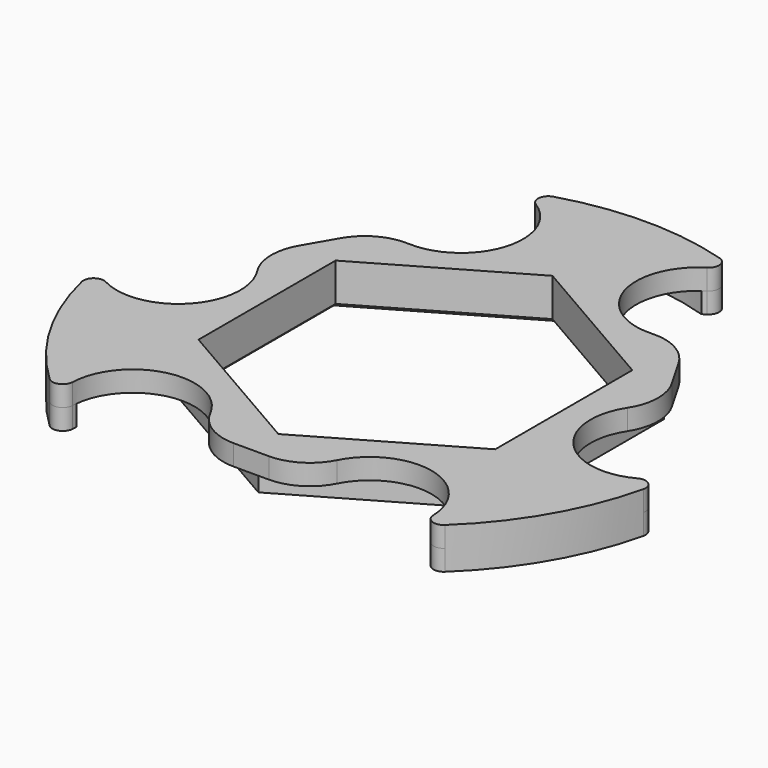
from build123d import *

# Parameters (mm, degrees)
PAD_DEPTH    = 2
PAD002_DEPTH = 4
PAD003_DEPTH = 2
FILLET_R     = 1
FILLET001_R  = 5
CHAMFER_SIZE = 0.3


with BuildPart() as part:
    # Sketch → Pad (new body)
    with BuildSketch(Plane.XY):
        with BuildLine():
            ThreePointArc((10.718064, 25.867414), (0, 28), (-10.718064, 25.867414))
            ThreePointArc((-14.5, 14.722432), (-5.818221, 17.990531), (-10.718064, 25.867414))
            Line((-20, 5.196152), (-14.5, 14.722432))
            ThreePointArc((-27.76087, -3.651592), (-18.489367, -3.956538), (-20, 5.196152))
            ThreePointArc((-27.76087, -3.651592), (-24.248711, -14), (-17.042806, -22.215822))
            ThreePointArc((-5.5, -19.918584), (-12.671146, -14.033993), (-17.042806, -22.215822))
            Line((5.5, -19.918584), (-5.5, -19.918584))
            ThreePointArc((17.042806, -22.215822), (12.671146, -14.033993), (5.5, -19.918584))
            ThreePointArc((17.042806, -22.215822), (24.248711, -14), (27.76087, -3.651592))
            ThreePointArc((20, 5.196152), (18.489367, -3.956538), (27.76087, -3.651592))
            Line((14.5, 14.722432), (20, 5.196152))
            ThreePointArc((10.718064, 25.867414), (5.818221, 17.990531), (14.5, 14.722432))
        make_face()
        Polygon((0, 16.627688), (-14.4, 8.313844), (-14.4, -8.313844), (0, -16.627688), (14.4, -8.313844), (14.4, 8.313844), align=None, mode=Mode.SUBTRACT)
    extrude(amount=PAD_DEPTH)

    # Sketch002 → Pad002 (join)
    with BuildSketch(Plane.XY.offset(2)):
        Polygon((0, 19.052559), (-16.5, 9.526279), (-16.5, -9.526279), (0, -19.052559), (16.5, -9.526279), (16.5, 9.526279), align=None)
        Polygon((0, 16.627688), (-14.4, 8.313844), (-14.4, -8.313844), (0, -16.627688), (14.4, -8.313844), (14.4, 8.313844), align=None, mode=Mode.SUBTRACT)
    extrude(amount=-PAD002_DEPTH)

    # Sketch003 → Pad003 (join)
    with BuildSketch(Plane.XY):
        with BuildLine():
            ThreePointArc((10.718064, 25.867414), (0, 28), (-10.718064, 25.867414))
            ThreePointArc((-7.949115, 24.755031), (-9.263332, 25.486108), (-10.718064, 25.867414))
            ThreePointArc((7.949115, 24.755031), (0, 26), (-7.949115, 24.755031))
            ThreePointArc((10.718064, 25.867414), (9.263332, 25.486108), (7.949115, 24.755031))
        make_face()
        with BuildLine():
            ThreePointArc((17.042806, -22.215822), (17.439951, -20.765335), (17.463928, -19.261651))
            ThreePointArc((17.463928, -19.261651), (22.51666, -13), (25.413043, -5.49338))
            ThreePointArc((25.413043, -5.49338), (26.703283, -4.720773), (27.76087, -3.651592))
            ThreePointArc((17.042806, -22.215822), (24.248711, -14), (27.76087, -3.651592))
        make_face()
        with BuildLine():
            ThreePointArc((-27.76087, -3.651592), (-26.703283, -4.720773), (-25.413043, -5.49338))
            ThreePointArc((-25.413043, -5.49338), (-22.51666, -13), (-17.463928, -19.261651))
            ThreePointArc((-17.463928, -19.261651), (-17.439951, -20.765335), (-17.042806, -22.215822))
            ThreePointArc((-27.76087, -3.651592), (-24.248711, -14), (-17.042806, -22.215822))
        make_face()
    extrude(amount=-PAD003_DEPTH)

    # Fillet
    fillet_edges = [part.edges().sort_by_distance(p)[0] for p in [
        (10.718064, 25.867414, 1),
        (10.718064, 25.867414, -1),
        (27.76087, -3.651592, -1),
        (27.76087, -3.651592, 1),
        (17.042806, -22.215822, -1),
        (17.042806, -22.215822, 1),
        (-17.042806, -22.215822, -1),
        (-17.042806, -22.215822, 1),
        (-27.76087, -3.651592, -1),
        (-27.76087, -3.651592, 1),
        (-10.718064, 25.867414, -1),
        (-10.718064, 25.867414, 1),
    ]]
    fillet(fillet_edges, radius=FILLET_R)

    # Fillet001
    fillet001_edges = [part.edges().sort_by_distance(p)[0] for p in [
        (14.5, 14.722432, 1),
        (20, 5.196152, 1),
        (5.5, -19.918584, 1),
        (-14.5, 14.722432, 1),
        (-20, 5.196152, 1),
        (-5.5, -19.918584, 1),
    ]]
    fillet(fillet001_edges, radius=FILLET001_R)

    # Chamfer
    chamfer_edges = [part.edges().sort_by_distance(p)[0] for p in [
        (7.2, -12.470766, -2),
        (-7.2, -12.470766, -2),
        (-14.4, 0, -2),
        (-7.2, 12.470766, -2),
        (7.2, 12.470766, -2),
        (14.4, 0, -2),
    ]]
    chamfer(chamfer_edges, length=CHAMFER_SIZE)


solid = part.part
